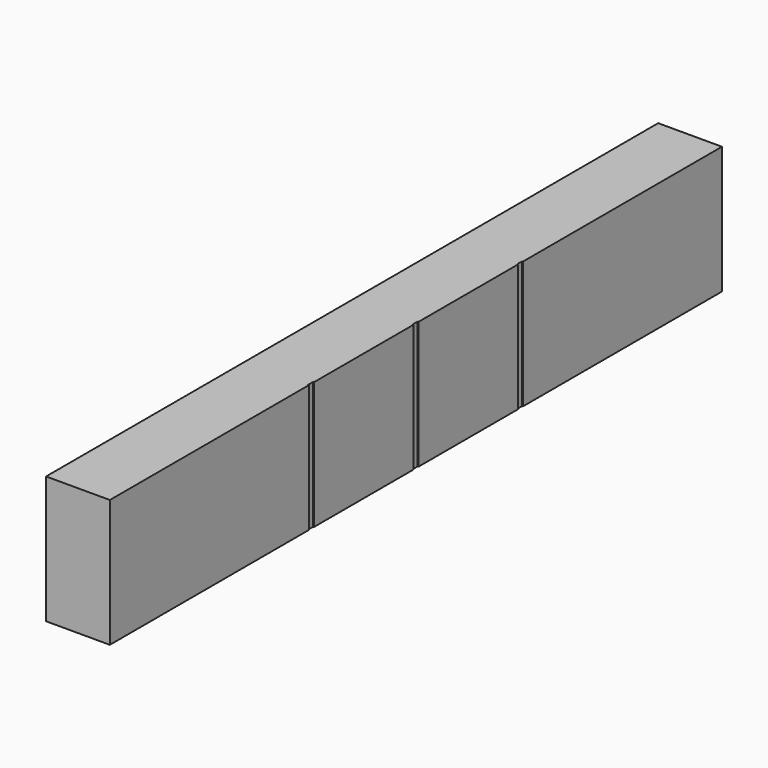
from build123d import *

# Parameters (mm, degrees)
F0_W     = 304.8
F0_H     = 50.8
F1_DEPTH = 50.8
F3_DEPTH = 0.635


with BuildPart() as f1:
    # F0 (on Right) → F1 (new body)
    with BuildSketch(Plane.YZ):
        with Locations((116.699336, 11.980601)):
            Rectangle(F0_W, F0_H)
        Polygon((573.899336, 37.380601), (269.099336, 37.380601), (269.099336, -13.419399), (269.099336, -64.219399), (573.899336, -64.219399), align=None)
        with Locations((116.699336, -38.819399)):
            Rectangle(F0_W, F0_H)
    extrude(amount=F1_DEPTH)

    # F2 (on face) → F3 (cut)
    with BuildSketch(Plane.YZ.offset(50.8)):
        Polygon((266.559336, 37.380601), (266.559336, 24.680648), (266.559336, -64.219399), (271.639336, -64.219399), (271.639336, 24.680648), (271.639336, 37.380601), align=None)
        Polygon((167.499336, -64.219399), (167.499336, -56.283856), (167.499336, 37.380601), (162.419336, 37.380601), (162.419336, -56.283856), (162.419336, -64.219399), align=None)
        Polygon((370.699336, 37.380601), (370.699336, -55.819727), (370.699336, -64.219399), (375.779336, -64.219399), (375.779336, -55.819727), (375.779336, 37.380601), align=None)
    extrude(amount=-F3_DEPTH, mode=Mode.SUBTRACT)


solid = f1.part
